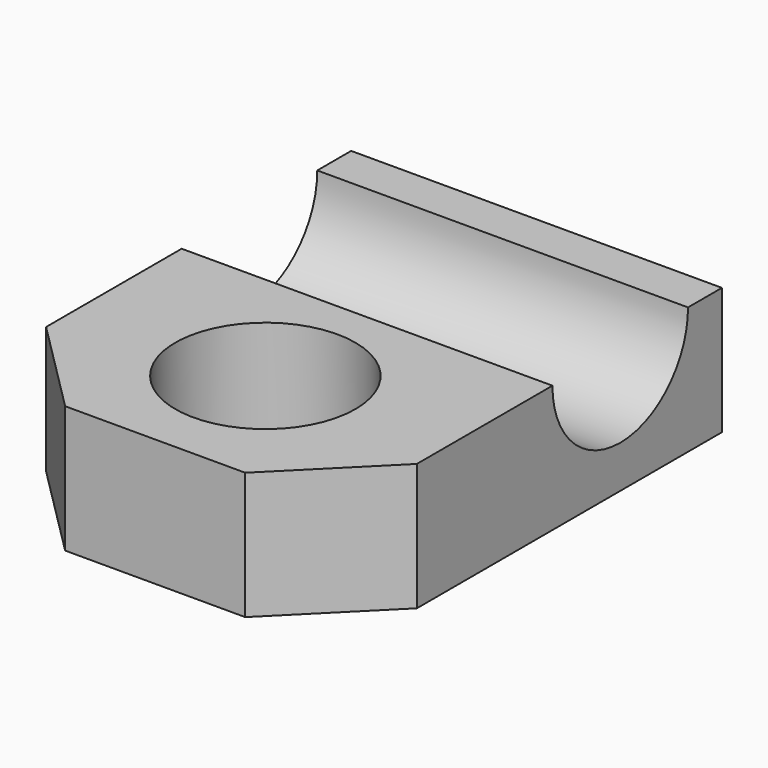
from build123d import *

# Parameters (mm, degrees)
F0_W     = 44.45
F0_H     = 57.15
F1_DEPTH = 15.24
F2_SIZE  = 11.43
F3_R     = 10.795
F4_DEPTH = 25.4
F6_DEPTH = 76.2


with BuildPart() as f1:
    # F0 (on Top) → F1 (new body)
    with BuildSketch(Plane.XY):
        with Locations((22.225, 28.575)):
            Rectangle(F0_W, F0_H)
    extrude(amount=F1_DEPTH)

    # F2
    f2_edges = [f1.edges().sort_by_distance(p)[0] for p in [
        (0, 0, 7.62),
        (44.45, 0, 7.62),
    ]]
    chamfer(f2_edges, length=F2_SIZE)

    # F3 (on face) → F4 (cut)
    with BuildSketch(Plane.XY.offset(15.24)):
        with Locations((22.225, 16.51)):
            Circle(F3_R)
    extrude(amount=-F4_DEPTH, mode=Mode.SUBTRACT)

    # F5 (on face) → F6 (cut)
    with BuildSketch(Plane.YZ.offset(44.45)):
        with BuildLine():
            Line((52.07, 15.24), (31.75, 15.24))
            ThreePointArc((31.75, 15.24), (41.91, 5.08), (52.07, 15.24))
        make_face()
    extrude(amount=-F6_DEPTH, mode=Mode.SUBTRACT)


solid = f1.part
